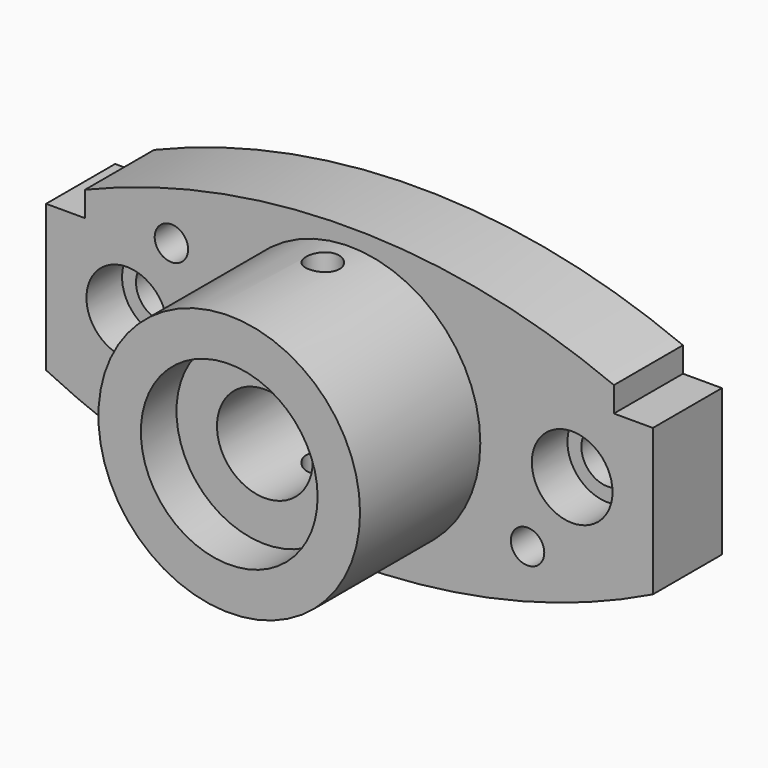
from build123d import *

# Parameters (mm, degrees)
F0_R           = 4.75
F0_R_2         = 8.6
F1_DEPTH       = 15.5
F2_R           = 7.25
F3_DEPTH       = 8
F4_R           = 23.5
F4_R_2         = 8.6
F5_DEPTH       = 27
F6_R           = 15.875
F7_DEPTH       = 8
F8_R           = 15.875
F9_DEPTH       = 10
F14_R          = 3
F15_DEPTH      = 25
F15_DEPTH_BACK = 25
F16_R          = 3
F17_DEPTH      = 15.5


with BuildPart() as f1:
    # F0 (on Front) → F1 (new body)
    with BuildSketch(Plane.XZ):
        with BuildLine():
            ThreePointArc((-54.5, -13.8241850861), (-27.977340312, -23.2893113667), (0, -26.5))
            ThreePointArc((0, -26.5), (27.977340312, -23.2893113667), (54.5, -13.8241850861))
            Line((54.5, -13.8241850861), (54.5, 12.5))
            Line((54.5, 12.5), (47.5, 12.5))
            Line((47.5, 12.5), (47.5, 17))
            ThreePointArc((47.5, 17), (0, 26.5), (-47.5, 17))
            Line((-47.5, 17), (-47.5, 12.5))
            Line((-47.5, 12.5), (-54.5, 12.5))
            Line((-54.5, 12.5), (-54.5, -13.8241850861))
        make_face()
        with Locations((-40, 0)):
            Circle(F0_R, mode=Mode.SUBTRACT)
        Circle(F0_R_2, mode=Mode.SUBTRACT)
        with Locations((40, 0)):
            Circle(F0_R, mode=Mode.SUBTRACT)
        with BuildLine():
            ThreePointArc((-54.5, -13.8241850861), (-27.977340312, -23.2893113667), (0, -26.5))
            ThreePointArc((0, -26.5), (27.977340312, -23.2893113667), (54.5, -13.8241850861))
            Line((54.5, -13.8241850861), (54.5, 12.5))
            Line((54.5, 12.5), (47.5, 12.5))
            Line((47.5, 12.5), (47.5, 17))
            ThreePointArc((47.5, 17), (0, 26.5), (-47.5, 17))
            Line((-47.5, 17), (-47.5, 12.5))
            Line((-47.5, 12.5), (-54.5, 12.5))
            Line((-54.5, 12.5), (-54.5, -13.8241850861))
        make_face()
        with Locations((-40, 0)):
            Circle(F0_R, mode=Mode.SUBTRACT)
        Circle(F0_R_2, mode=Mode.SUBTRACT)
        with Locations((40, 0)):
            Circle(F0_R, mode=Mode.SUBTRACT)
    extrude(amount=F1_DEPTH)

    # F2 (on face) → F3 (cut)
    with BuildSketch(Plane.XZ.offset(15.5)):
        with Locations((-40, 0)):
            Circle(F2_R)
        with Locations((40, 0)):
            Circle(F2_R)
    extrude(amount=-F3_DEPTH, mode=Mode.SUBTRACT)

    # F4 (on face) → F5 (join)
    with BuildSketch(Plane.XZ.offset(15.5)):
        Circle(F4_R)
        Circle(F4_R_2, mode=Mode.SUBTRACT)
    extrude(amount=F5_DEPTH)

    # F6 (on face) → F7 (cut)
    with BuildSketch(Plane.XZ.offset(42.5)):
        Circle(F6_R)
    extrude(amount=-F7_DEPTH, mode=Mode.SUBTRACT)

    # F8 (on face) → F9 (cut)
    with BuildSketch(Plane(origin=(0, 0, 0), x_dir=(-1, 0, 0), z_dir=(0, 1, 0))):
        Circle(F8_R)
    extrude(amount=-F9_DEPTH, mode=Mode.SUBTRACT)

    # F14 (on 3pt) → F15 (cut, two sides)
    with BuildSketch(Plane.XY.offset(-0.6620925431)) as f15_sk:
        with Locations((0, -21.5)):
            Circle(F14_R)
    extrude(amount=F15_DEPTH, mode=Mode.SUBTRACT)
    extrude(f15_sk.sketch, amount=-F15_DEPTH_BACK, mode=Mode.SUBTRACT)

    # F16 (on face) → F17 (cut, through all)
    with BuildSketch(Plane.XZ.offset(15.5)):
        with Locations((-31.9875436575, 13.577906715)):
            Circle(F16_R)
        with Locations((31.9875436575, -13.577906715)):
            Circle(F16_R)
    extrude(amount=-F17_DEPTH, mode=Mode.SUBTRACT)


solid = f1.part
